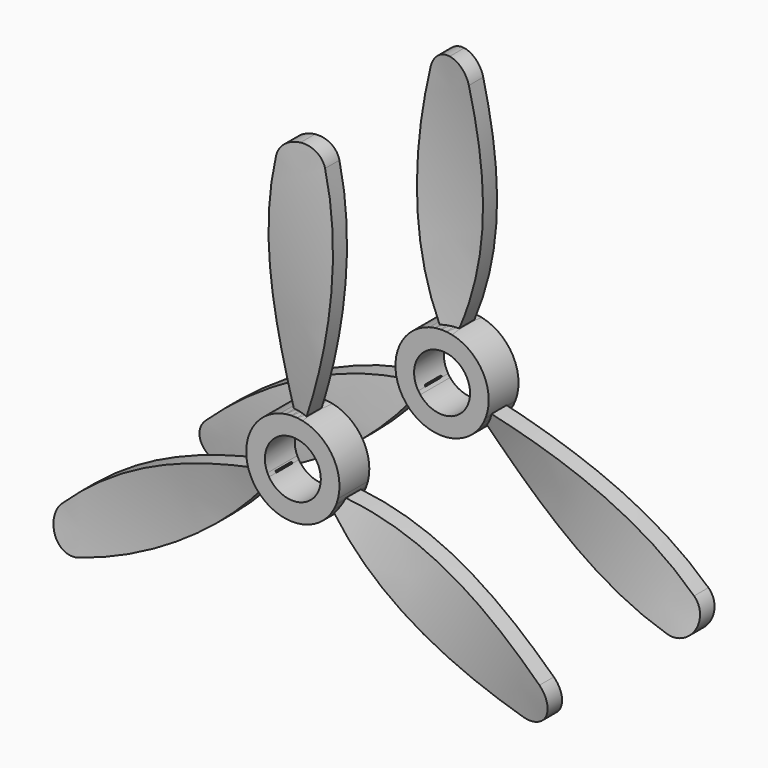
from build123d import *

# Parameters (mm, degrees)
F5_DEPTH = 10
F6_R     = 12.5
F6_R_2   = 7.5
F7_DEPTH = 5
F8_COUNT = 3


with BuildPart() as f3:
    # F2 (on offset) → F3 section 0
    with BuildSketch(Plane.XY.offset(100)):
        Polygon((-22.637265, 10.899735), (-24.347366, 6.201272), (22.637265, -10.899735), (24.347366, -6.201272), align=None)
    # F1 (on Top) → F3 section 1
    with BuildSketch(Plane.XY):
        Polygon((-24.347366, -6.201272), (-22.637265, -10.899735), (24.347366, 6.201272), (22.637265, 10.899735), align=None)
    loft()

    # F4 (on Front) → F5 (intersect, symmetric)
    with BuildSketch(Plane.XZ):
        with BuildLine():
            ThreePointArc((-5.833496, 71.403681), (-8.220335, 38.721457), (0, 7))
            ThreePointArc((0, 7), (8.220335, 38.721457), (5.833496, 71.403681))
            ThreePointArc((5.833496, 71.403681), (3.713349, 74.712859), (0, 76))
            ThreePointArc((0, 76), (-3.713349, 74.712859), (-5.833496, 71.403681))
        make_face()
    extrude(amount=F5_DEPTH, both=True, mode=Mode.INTERSECT)

    # F6 (on Front) → F7 (join, symmetric)
    with BuildSketch(Plane.XZ):
        Circle(F6_R)
        Circle(F6_R_2, mode=Mode.SUBTRACT)
    extrude(amount=F7_DEPTH, both=True)


with BuildPart() as f8_1:
    # F8: instance of F3
    add(f3.part.rotate(Axis((0, -5, 0), (0, -1, 0)), 1 * 360 / F8_COUNT))


with BuildPart() as f8_2:
    # F8: instance of F3
    add(f3.part.rotate(Axis((0, -5, 0), (0, -1, 0)), 2 * 360 / F8_COUNT))


with BuildPart() as f10_1:
    # F10: instance of F3
    add(f3.part.mirror(Plane.XZ.offset(25)))


with BuildPart() as f10_2:
    # F10: instance of F8_2
    add(f8_2.part.mirror(Plane.XZ.offset(25)))


with BuildPart() as f10_3:
    # F10: instance of F8_1
    add(f8_1.part.mirror(Plane.XZ.offset(25)))


solid = Compound([f3.part, f8_1.part, f8_2.part, f10_1.part, f10_2.part, f10_3.part])
